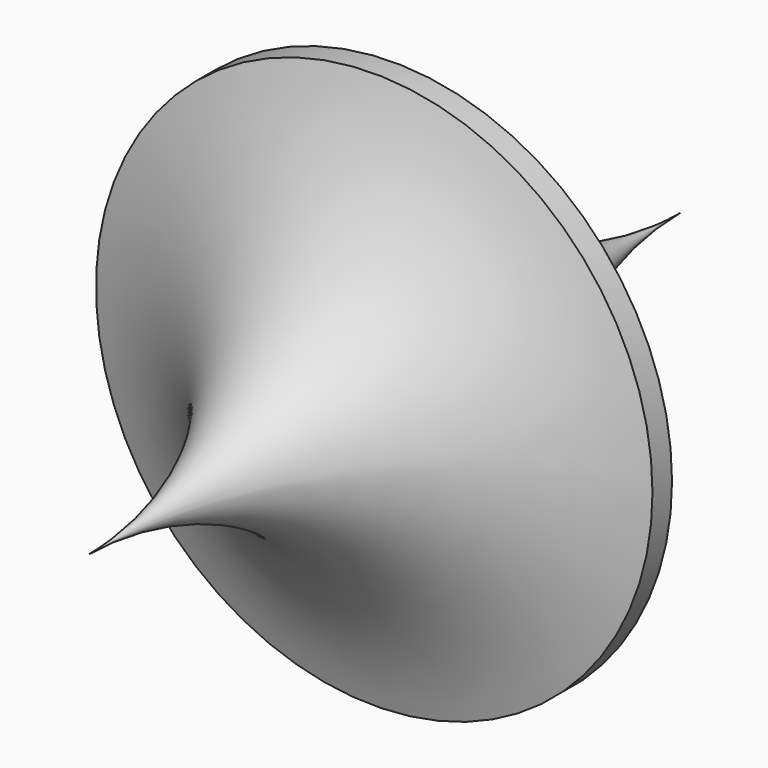
from build123d import *


with BuildPart() as f1:
    # F0 (on Top) → F1 (revolve)
    with BuildSketch(Plane.XY):
        with BuildLine():
            Line((0, 22), (0, 11))
            Line((0, 11), (8.254802, 11))
            Line((8.254802, 11), (8.254802, 11.362685))
            ThreePointArc((8.254802, 11.362685), (2.323138, 15.281192), (0, 22))
        make_face()
        with BuildLine():
            Line((0, 11), (0, 0))
            ThreePointArc((0, 0), (2.323138, 6.718808), (8.254802, 10.637315))
            Line((8.254802, 10.637315), (8.254802, 11))
            Line((8.254802, 11), (0, 11))
        make_face()
    revolve(axis=Axis((0, 11, 0), (0, 1, 0)))


solid = f1.part
